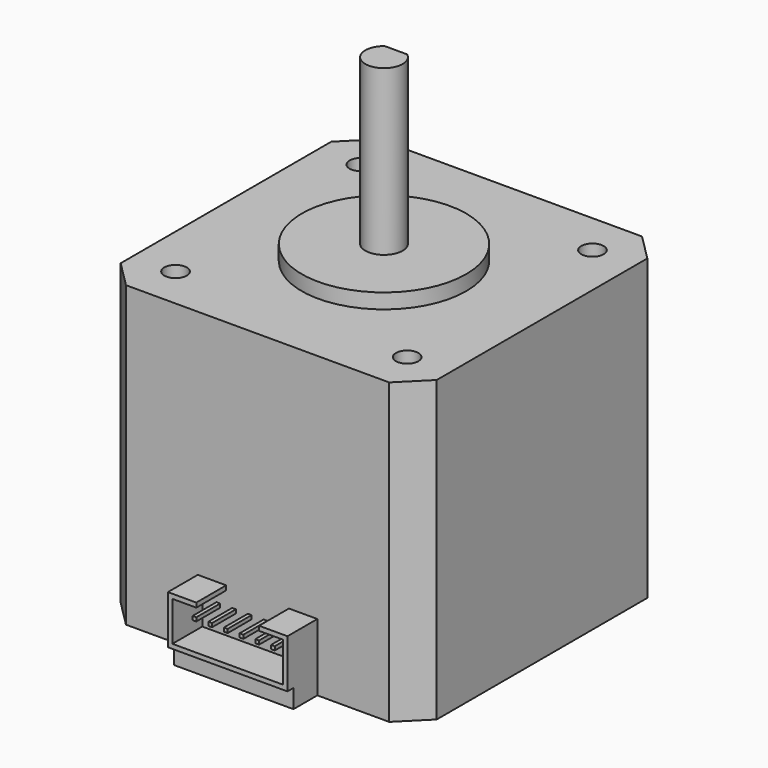
from build123d import *

# Parameters (mm, degrees)
PAD009_DEPTH   = 40
SKETCH017_R    = 1.5
HOLE002_DEPTH  = 4.5
HOLE002_TIPS_R = 1.5
SKETCH018_R    = 1.5
HOLE003_DEPTH  = 4.5
HOLE003_TIPS_R = 1.5
SKETCH019_R    = 11
PAD010_DEPTH   = 2
PAD011_DEPTH   = 22
SKETCH021_R    = 2.5
PAD012_DEPTH   = 3
SKETCH022_W    = 16
SKETCH022_H    = 4
PAD013_DEPTH   = 2.5
PAD014_DEPTH   = 5
SKETCH024_W    = 0.5
SKETCH024_H    = 0.5
PAD015_DEPTH   = 4


with BuildPart() as part:
    # Sketch016 → Pad009 (new body)
    with BuildSketch(Plane.XY):
        Polygon((-17.6144660941, 21.15), (17.6144660941, 21.15), (21.15, 17.6144660941), (21.15, -17.6144660941), (17.6144660941, -21.15), (-17.6144660941, -21.15), (-21.15, -17.6144660941), (-21.15, 17.6144660941), align=None)
    extrude(amount=PAD009_DEPTH)

    # Sketch017 (on Face10 of Pad009) → Hole002 (cut)
    with BuildSketch(Plane.XY.offset(40)):
        with Locations((15.5, 15.5)):
            Circle(SKETCH017_R)
        with Locations((-15.5, 15.5)):
            Circle(SKETCH017_R)
        with Locations((-15.5, -15.5)):
            Circle(SKETCH017_R)
        with Locations((15.5, -15.5)):
            Circle(SKETCH017_R)
    extrude(amount=-HOLE002_DEPTH, mode=Mode.SUBTRACT)

    # Hole002 tips → Hole002 tip 1 section 0
    with BuildSketch(Plane.XY.offset(35.5), mode=Mode.PRIVATE) as hole002_tip_1_s0:
        with Locations((15.5, 15.5)):
            Circle(HOLE002_TIPS_R)
    loft([hole002_tip_1_s0.sketch, Vertex(15.5, 15.5, 34.5987090715)], mode=Mode.SUBTRACT)

    # Hole002 tips → Hole002 tip 2 section 0
    with BuildSketch(Plane.XY.offset(35.5), mode=Mode.PRIVATE) as hole002_tip_2_s0:
        with Locations((-15.5, 15.5)):
            Circle(HOLE002_TIPS_R)
    loft([hole002_tip_2_s0.sketch, Vertex(-15.5, 15.5, 34.5987090715)], mode=Mode.SUBTRACT)

    # Hole002 tips → Hole002 tip 3 section 0
    with BuildSketch(Plane.XY.offset(35.5), mode=Mode.PRIVATE) as hole002_tip_3_s0:
        with Locations((-15.5, -15.5)):
            Circle(HOLE002_TIPS_R)
    loft([hole002_tip_3_s0.sketch, Vertex(-15.5, -15.5, 34.5987090715)], mode=Mode.SUBTRACT)

    # Hole002 tips → Hole002 tip 4 section 0
    with BuildSketch(Plane.XY.offset(35.5), mode=Mode.PRIVATE) as hole002_tip_4_s0:
        with Locations((15.5, -15.5)):
            Circle(HOLE002_TIPS_R)
    loft([hole002_tip_4_s0.sketch, Vertex(15.5, -15.5, 34.5987090715)], mode=Mode.SUBTRACT)

    # Sketch018 → Hole003 (cut)
    with BuildSketch(Plane.XY):
        with Locations((-15.5, 15.5)):
            Circle(SKETCH018_R)
        with Locations((-15.5, -15.5)):
            Circle(SKETCH018_R)
        with Locations((15.5, -15.5)):
            Circle(SKETCH018_R)
        with Locations((15.5, 15.5)):
            Circle(SKETCH018_R)
    extrude(amount=HOLE003_DEPTH, mode=Mode.SUBTRACT)

    # Hole003 tips → Hole003 tip 1 section 0
    with BuildSketch(Plane.XY.offset(4.5), mode=Mode.PRIVATE) as hole003_tip_1_s0:
        with Locations((-15.5, 15.5)):
            Circle(HOLE003_TIPS_R)
    loft([hole003_tip_1_s0.sketch, Vertex(-15.5, 15.5, 5.4012909285)], mode=Mode.SUBTRACT)

    # Hole003 tips → Hole003 tip 2 section 0
    with BuildSketch(Plane.XY.offset(4.5), mode=Mode.PRIVATE) as hole003_tip_2_s0:
        with Locations((-15.5, -15.5)):
            Circle(HOLE003_TIPS_R)
    loft([hole003_tip_2_s0.sketch, Vertex(-15.5, -15.5, 5.4012909285)], mode=Mode.SUBTRACT)

    # Hole003 tips → Hole003 tip 3 section 0
    with BuildSketch(Plane.XY.offset(4.5), mode=Mode.PRIVATE) as hole003_tip_3_s0:
        with Locations((15.5, -15.5)):
            Circle(HOLE003_TIPS_R)
    loft([hole003_tip_3_s0.sketch, Vertex(15.5, -15.5, 5.4012909285)], mode=Mode.SUBTRACT)

    # Hole003 tips → Hole003 tip 4 section 0
    with BuildSketch(Plane.XY.offset(4.5), mode=Mode.PRIVATE) as hole003_tip_4_s0:
        with Locations((15.5, 15.5)):
            Circle(HOLE003_TIPS_R)
    loft([hole003_tip_4_s0.sketch, Vertex(15.5, 15.5, 5.4012909285)], mode=Mode.SUBTRACT)

    # Sketch019 (on Face5 of Hole003) → Pad010 (join)
    with BuildSketch(Plane.XY.offset(40)):
        Circle(SKETCH019_R)
    extrude(amount=PAD010_DEPTH)

    # Sketch020 (on Face27 of Pad010) → Pad011 (join)
    with BuildSketch(Plane.XY.offset(42)):
        with BuildLine():
            ThreePointArc((-1.5, 2), (0, -2.5), (1.5, 2))
            Line((-1.5, 2), (1.5, 2))
        make_face()
    extrude(amount=PAD011_DEPTH)

    # Sketch021 (on Face27 of Pad010) → Pad012 (join)
    with BuildSketch(Plane.XY.offset(42)):
        Circle(SKETCH021_R)
    extrude(amount=PAD012_DEPTH)

    # Sketch022 (on Face4 of Pad012) → Pad013 (join)
    with BuildSketch(Plane(origin=(0, 0, 0), x_dir=(1, 0, 0), z_dir=(0, 0, -1))):
        with Locations((0, 23.15)):
            Rectangle(SKETCH022_W, SKETCH022_H)
    extrude(amount=-PAD013_DEPTH)

    # Sketch023 (on Face10 of Pad013) → Pad014 (join)
    with BuildSketch(Plane.XZ.offset(21.15)):
        Polygon((-4.2, 9), (-8, 9), (-8, 2.5), (8, 2.5), (8, 9), (4.2, 9), (4.2, 8.4), (7.4, 8.4), (7.4, 3.1), (-7.4, 3.1), (-7.4, 8.4), (-4.2, 8.4), align=None)
    extrude(amount=PAD014_DEPTH)

    # Sketch024 (on Face10 of Pad014) → Pad015 (join)
    with BuildSketch(Plane.XZ.offset(21.15)):
        with Locations((-5.25, 6.35)):
            Rectangle(SKETCH024_W, SKETCH024_H)
        with Locations((-3.15, 6.35)):
            Rectangle(SKETCH024_W, SKETCH024_H)
        with Locations((-1.05, 6.35)):
            Rectangle(SKETCH024_W, SKETCH024_H)
        with Locations((1.05, 6.35)):
            Rectangle(SKETCH024_W, SKETCH024_H)
        with Locations((3.15, 6.35)):
            Rectangle(SKETCH024_W, SKETCH024_H)
        with Locations((5.25, 6.35)):
            Rectangle(SKETCH024_W, SKETCH024_H)
    extrude(amount=PAD015_DEPTH)


solid = part.part
